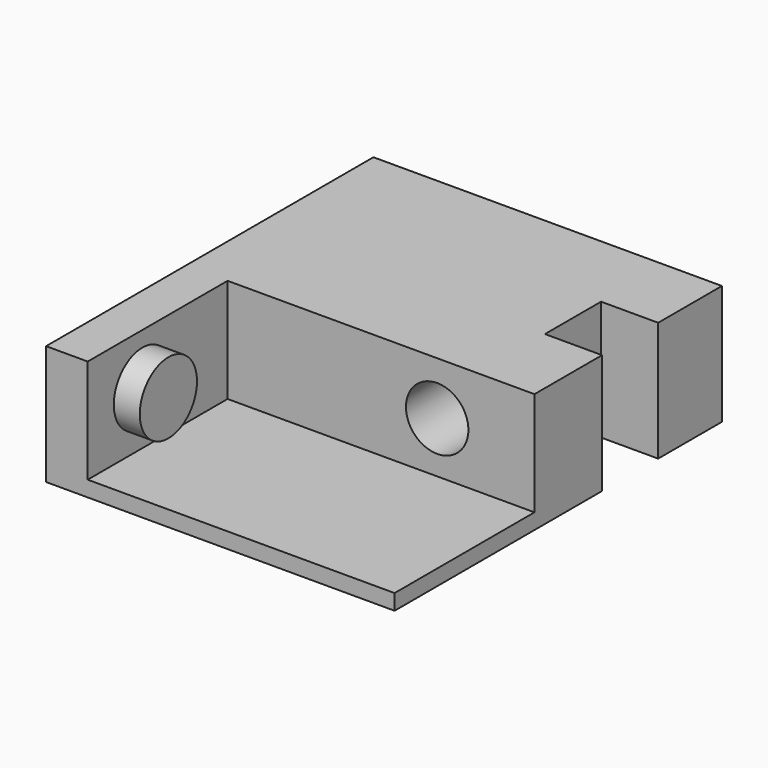
from build123d import *

# Parameters (mm, degrees)
F1_DEPTH = 3.81
F3_DEPTH = 25.4
F4_R     = 8.724849
F5_DEPTH = 6.35
F7_D     = 15.24


with BuildPart() as f1:
    # F0 (on Top) → F1 (new body)
    with BuildSketch(Plane.XY):
        Polygon((-39.496768, 41.965317), (-39.496768, 35.576135), (-39.496768, -57.938274), (45.595534, -57.938274), (45.595534, 5.372723), (31.655498, 5.372723), (31.655498, 22.507351), (45.595534, 22.507351), (45.595534, 41.965317), align=None)
    extrude(amount=F1_DEPTH)

    # F2 (on face) → F3 (join)
    with BuildSketch(Plane.XY.offset(3.81)):
        Polygon((45.595534, 41.965317), (-39.496768, 41.965317), (-39.496768, -57.938274), (-29.332161, -57.938274), (-29.332161, -15.246916), (45.595534, -15.246916), (45.595534, 5.372723), (31.655498, 5.372723), (31.655498, 22.507351), (45.595534, 22.507351), align=None)
    extrude(amount=F3_DEPTH)

    # F4 (on face) → F5 (join)
    with BuildSketch(Plane.YZ.offset(-29.332161)):
        with Locations((-41.252476, 16.706923)):
            Circle(F4_R)
    extrude(amount=F5_DEPTH)

    # F7 (through all)
    with Locations(Plane.XZ.offset(15.246916)):
        with Locations((21.842908, 16.264843)):
            Hole(F7_D / 2)


solid = f1.part
